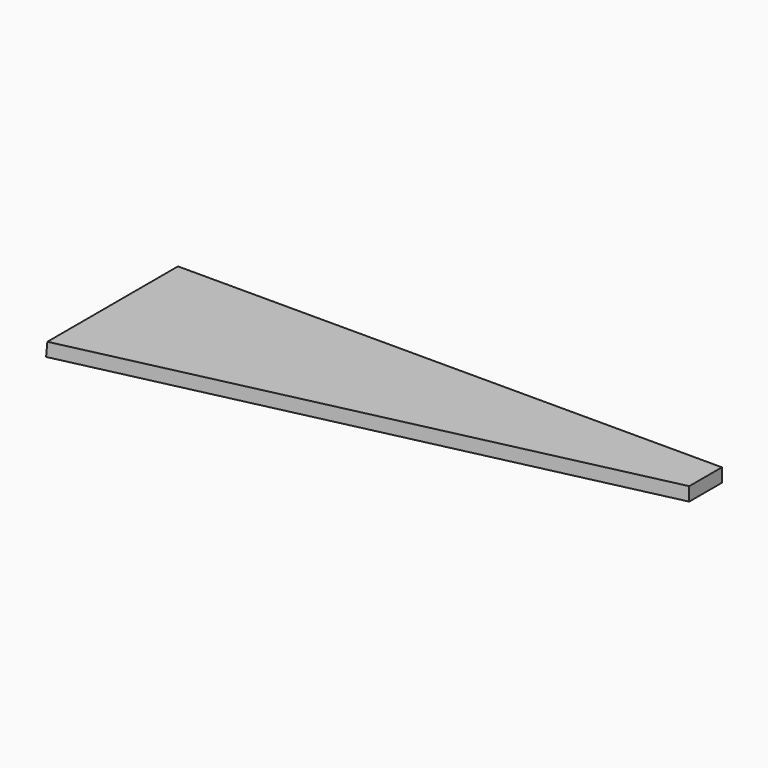
from build123d import *

# Parameters (mm, degrees)
F1_DEPTH = 6.35
F3_DEPTH = 86.614


with BuildPart() as f1:
    # F0 (on Top) → F1 (new body)
    with BuildSketch(Plane.XY):
        Polygon((127.932455, 38.813032), (-126.067545, 38.813032), (-126.067545, -37.386968), (127.932455, 19.763032), align=None)
    extrude(amount=F1_DEPTH)

    # F2 (on face) → F3 (cut)
    with BuildSketch(Plane(origin=(0, 38.813032, 0), x_dir=(-1, 0, 0), z_dir=(0, 1, 0))):
        Polygon((125.561953, 6.35), (126.067545, 0), (126.067545, 6.35), align=None)
    extrude(amount=-F3_DEPTH, mode=Mode.SUBTRACT)


solid = f1.part
